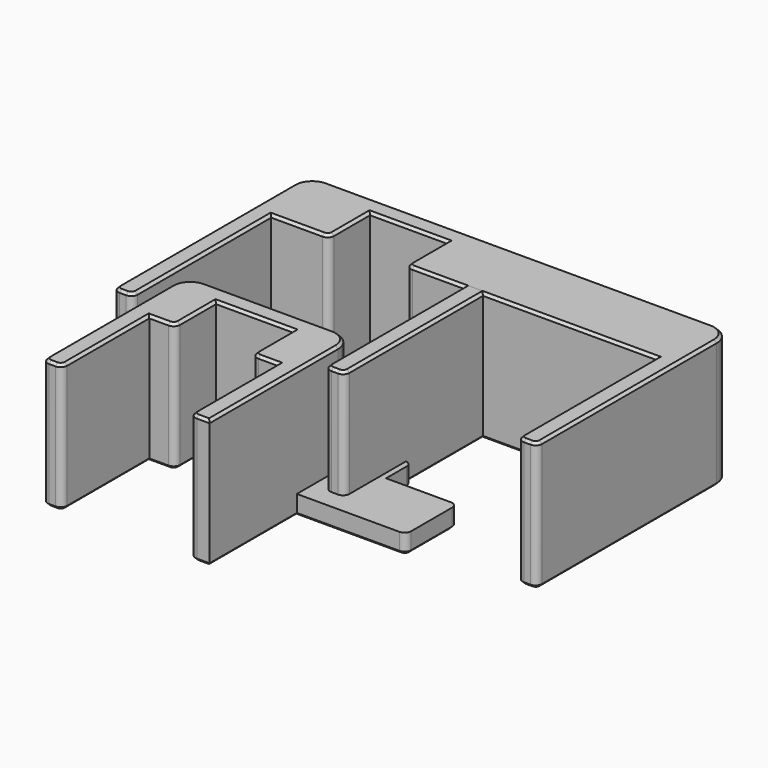
from build123d import *

# Parameters (mm, degrees)
BOX002_W        = 30
BOX002_H        = 15
BOX002_DEPTH    = 10
BOX001_W        = 7.8
BOX001_H        = 10
BOX001_DEPTH    = 4
FILLET001_R     = 1
CHAMFER001_SIZE = 0.4
BOX_W           = 30
BOX_H           = 10
BOX_DEPTH       = 4
FILLET_R        = 1
CHAMFER_SIZE    = 0.4
BOX005_W        = 12
BOX005_H        = 8
BOX005_DEPTH    = 20
BOX004_W        = 30
BOX004_H        = 30
BOX004_DEPTH    = 20
BOX003_W        = 36
BOX003_H        = 38
BOX003_DEPTH    = 20
FILLET002_R     = 3
FILLET003_R     = 1
FILLET006_R     = 1
CHAMFER002_SIZE = 0.4
BOX008_W        = 12
BOX008_H        = 8
BOX008_DEPTH    = 20
BOX007_W        = 60
BOX007_H        = 30
BOX007_DEPTH    = 20
BOX006_W        = 66
BOX006_H        = 38
BOX006_DEPTH    = 20
FILLET004_R     = 3
FILLET005_R     = 1
FILLET007_R     = 1
CHAMFER003_SIZE = 0.4
BOX009_W        = 12
BOX009_H        = 8
BOX009_DEPTH    = 20
BOX010_W        = 20
BOX010_H        = 20
BOX010_DEPTH    = 20
BOX011_W        = 26
BOX011_H        = 28
BOX011_DEPTH    = 20
FILLET008_R     = 3
FILLET009_R     = 1
CHAMFER004_SIZE = 0.4


with BuildPart() as cube002:
    # Box002 → Box002 (new body)
    with BuildSketch(Plane.XY.offset(3)):
        with Locations((15, 7.5)):
            Rectangle(BOX002_W, BOX002_H)
    extrude(amount=BOX002_DEPTH)


with BuildPart() as chamfer001:
    # Box001 → Box001 (new body)
    with BuildSketch(Plane(origin=(11.1, 5, 0), x_dir=(1, 0, 0), z_dir=(0, 0, 1))):
        with Locations((3.9, 5)):
            Rectangle(BOX001_W, BOX001_H)
    extrude(amount=BOX001_DEPTH)

    # Fillet001
    fillet001_edges = [chamfer001.edges().sort_by_distance(p)[0] for p in [
        (11.1, 15, 2),
        (18.9, 15, 2),
    ]]
    fillet(fillet001_edges, radius=FILLET001_R)

    # Chamfer001
    chamfer001_edges = [chamfer001.edges().sort_by_distance(p)[0] for p in [
        (11.1, 9.5, 0),
        (11.392893, 14.707107, 0),
        (15, 5, 0),
        (18.9, 9.5, 0),
        (18.607107, 14.707107, 0),
        (15, 15, 0),
    ]]
    chamfer(chamfer001_edges, length=CHAMFER001_SIZE)


with BuildPart() as cut:
    # Box → Box (new body)
    with BuildSketch(Plane.XY):
        with Locations((15, 5)):
            Rectangle(BOX_W, BOX_H)
    extrude(amount=BOX_DEPTH)

    # Fillet
    fillet_edges = [cut.edges().sort_by_distance(p)[0] for p in [
        (0, 0, 2),
        (0, 10, 2),
        (30, 0, 2),
        (30, 10, 2),
    ]]
    fillet(fillet_edges, radius=FILLET_R)

    # Chamfer
    chamfer_edges = [cut.edges().sort_by_distance(p)[0] for p in [
        (0, 5, 0),
        (0.292893, 0.292893, 0),
        (0.292893, 9.707107, 0),
        (15, 0, 0),
        (29.707107, 0.292893, 0),
        (30, 5, 0),
        (29.707107, 9.707107, 0),
        (15, 10, 0),
    ]]
    chamfer(chamfer_edges, length=CHAMFER_SIZE)

    # Fusion: union Chamfer001
    add(chamfer001.part)

    # Cut: cut Cube002
    add(cube002.part, mode=Mode.SUBTRACT)


with BuildPart() as cube005:
    # Box005 → Box005 (new body)
    with BuildSketch(Plane(origin=(-6, 30, 0), x_dir=(1, 0, 0), z_dir=(0, 0, 1))):
        with Locations((6, 4)):
            Rectangle(BOX005_W, BOX005_H)
    extrude(amount=BOX005_DEPTH)


with BuildPart() as fusion001:
    # Box004 → Box004 (new body)
    with BuildSketch(Plane(origin=(-15, 0, 0), x_dir=(1, 0, 0), z_dir=(0, 0, 1))):
        with Locations((15, 15)):
            Rectangle(BOX004_W, BOX004_H)
    extrude(amount=BOX004_DEPTH)

    # Fusion001: union Cube005
    add(cube005.part)


with BuildPart() as f_30_spacer:
    # Box003 → Box003 (new body)
    with BuildSketch(Plane(origin=(-18, 3, 0), x_dir=(1, 0, 0), z_dir=(0, 0, 1))):
        with Locations((18, 19)):
            Rectangle(BOX003_W, BOX003_H)
    extrude(amount=BOX003_DEPTH)

    # Fillet002
    fillet002_edges = [f_30_spacer.edges().sort_by_distance(p)[0] for p in [
        (-18, 41, 10),
        (18, 41, 10),
    ]]
    fillet(fillet002_edges, radius=FILLET002_R)

    # Fillet003
    fillet003_edges = [f_30_spacer.edges().sort_by_distance(p)[0] for p in [
        (-18, 3, 10),
        (18, 3, 10),
    ]]
    fillet(fillet003_edges, radius=FILLET003_R)

    # Cut001: cut Fusion001
    add(fusion001.part, mode=Mode.SUBTRACT)

    # Fillet006
    fillet006_edges = [f_30_spacer.edges().sort_by_distance(p)[0] for p in [
        (15, 3, 10),
        (6, 30, 10),
        (-6, 30, 10),
        (-15, 3, 10),
    ]]
    fillet(fillet006_edges, radius=FILLET006_R)

    # Chamfer002
    chamfer002_edges = [f_30_spacer.edges().sort_by_distance(p)[0] for p in [
        (16.5, 3, 20),
        (17.707107, 3.292893, 20),
        (18, 21, 20),
        (17.12132, 40.12132, 20),
        (0, 41, 20),
        (-17.12132, 40.12132, 20),
        (-18, 21, 20),
        (-17.707107, 3.292893, 20),
        (-16.5, 3, 20),
        (-15.292893, 3.292893, 20),
        (-15, 17, 20),
        (-11, 30, 20),
        (-6.292893, 30.292893, 20),
        (-6, 34.5, 20),
        (0, 38, 20),
        (6, 34.5, 20),
        (6.292893, 30.292893, 20),
        (11, 30, 20),
        (15, 17, 20),
        (15.292893, 3.292893, 20),
        (16.5, 3, 0),
        (15.292893, 3.292893, 0),
        (17.707107, 3.292893, 0),
        (15, 17, 0),
        (18, 21, 0),
        (11, 30, 0),
        (17.12132, 40.12132, 0),
        (6.292893, 30.292893, 0),
        (0, 41, 0),
        (6, 34.5, 0),
        (-17.12132, 40.12132, 0),
        (0, 38, 0),
        (-18, 21, 0),
        (-6, 34.5, 0),
        (-17.707107, 3.292893, 0),
        (-6.292893, 30.292893, 0),
        (-16.5, 3, 0),
        (-11, 30, 0),
        (-15.292893, 3.292893, 0),
        (-15, 17, 0),
    ]]
    chamfer(chamfer002_edges, length=CHAMFER002_SIZE)


with BuildPart() as cube008:
    # Box008 → Box008 (new body)
    with BuildSketch(Plane(origin=(-6, 30, 0), x_dir=(1, 0, 0), z_dir=(0, 0, 1))):
        with Locations((6, 4)):
            Rectangle(BOX008_W, BOX008_H)
    extrude(amount=BOX008_DEPTH)


with BuildPart() as fusion002:
    # Box007 → Box007 (new body)
    with BuildSketch(Plane(origin=(-15, 0, 0), x_dir=(1, 0, 0), z_dir=(0, 0, 1))):
        with Locations((30, 15)):
            Rectangle(BOX007_W, BOX007_H)
    extrude(amount=BOX007_DEPTH)

    # Fusion002: union Cube008
    add(cube008.part)


with BuildPart() as f_60_spacer:
    # Box006 → Box006 (new body)
    with BuildSketch(Plane(origin=(-18, 3, 0), x_dir=(1, 0, 0), z_dir=(0, 0, 1))):
        with Locations((33, 19)):
            Rectangle(BOX006_W, BOX006_H)
    extrude(amount=BOX006_DEPTH)

    # Fillet004
    fillet004_edges = [f_60_spacer.edges().sort_by_distance(p)[0] for p in [
        (-18, 41, 10),
        (48, 41, 10),
    ]]
    fillet(fillet004_edges, radius=FILLET004_R)

    # Fillet005
    fillet005_edges = [f_60_spacer.edges().sort_by_distance(p)[0] for p in [
        (-18, 3, 10),
        (48, 3, 10),
    ]]
    fillet(fillet005_edges, radius=FILLET005_R)

    # Cut002: cut Fusion002
    add(fusion002.part, mode=Mode.SUBTRACT)

    # Fillet007
    fillet007_edges = [f_60_spacer.edges().sort_by_distance(p)[0] for p in [
        (45, 3, 10),
        (6, 30, 10),
        (-6, 30, 10),
        (-15, 3, 10),
    ]]
    fillet(fillet007_edges, radius=FILLET007_R)

    # Chamfer003
    chamfer003_edges = [f_60_spacer.edges().sort_by_distance(p)[0] for p in [
        (46.5, 3, 20),
        (47.707107, 3.292893, 20),
        (48, 21, 20),
        (47.12132, 40.12132, 20),
        (15, 41, 20),
        (-17.12132, 40.12132, 20),
        (-18, 21, 20),
        (-17.707107, 3.292893, 20),
        (-16.5, 3, 20),
        (-15.292893, 3.292893, 20),
        (-15, 17, 20),
        (-11, 30, 20),
        (-6.292893, 30.292893, 20),
        (-6, 34.5, 20),
        (0, 38, 20),
        (6, 34.5, 20),
        (6.292893, 30.292893, 20),
        (26, 30, 20),
        (45, 17, 20),
        (45.292893, 3.292893, 20),
        (46.5, 3, 0),
        (45.292893, 3.292893, 0),
        (47.707107, 3.292893, 0),
        (45, 17, 0),
        (48, 21, 0),
        (26, 30, 0),
        (47.12132, 40.12132, 0),
        (6.292893, 30.292893, 0),
        (15, 41, 0),
        (6, 34.5, 0),
        (-17.12132, 40.12132, 0),
        (0, 38, 0),
        (-18, 21, 0),
        (-6, 34.5, 0),
        (-17.707107, 3.292893, 0),
        (-6.292893, 30.292893, 0),
        (-16.5, 3, 0),
        (-11, 30, 0),
        (-15.292893, 3.292893, 0),
        (-15, 17, 0),
    ]]
    chamfer(chamfer003_edges, length=CHAMFER003_SIZE)


with BuildPart() as cube009:
    # Box009 → Box009 (new body)
    with BuildSketch(Plane(origin=(-6, 0, 0), x_dir=(1, 0, 0), z_dir=(0, 0, 1))):
        with Locations((6, 4)):
            Rectangle(BOX009_W, BOX009_H)
    extrude(amount=BOX009_DEPTH)


with BuildPart() as fusion003:
    # Box010 → Box010 (new body)
    with BuildSketch(Plane(origin=(-10, -20, 0), x_dir=(1, 0, 0), z_dir=(0, 0, 1))):
        with Locations((10, 10)):
            Rectangle(BOX010_W, BOX010_H)
    extrude(amount=BOX010_DEPTH)

    # Fusion003: union Cube009
    add(cube009.part)


with BuildPart() as chamfer004:
    # Box011 → Box011 (new body)
    with BuildSketch(Plane(origin=(-13, -17, 0), x_dir=(1, 0, 0), z_dir=(0, 0, 1))):
        with Locations((13, 14)):
            Rectangle(BOX011_W, BOX011_H)
    extrude(amount=BOX011_DEPTH)

    # Cut003: cut Fusion003
    add(fusion003.part, mode=Mode.SUBTRACT)

    # Fillet008
    fillet008_edges = [chamfer004.edges().sort_by_distance(p)[0] for p in [
        (-13, 11, 10),
        (13, 11, 10),
    ]]
    fillet(fillet008_edges, radius=FILLET008_R)

    # Fillet009
    fillet009_edges = [chamfer004.edges().sort_by_distance(p)[0] for p in [
        (-13, -17, 10),
        (-10, -17, 10),
        (10, -17, 10),
        (-6, 0, 10),
        (6, 0, 10),
    ]]
    fillet(fillet009_edges, radius=FILLET009_R)

    # Chamfer004
    chamfer004_edges = [chamfer004.edges().sort_by_distance(p)[0] for p in [
        (-13, -4, 20),
        (-13, -4, 0),
        (-12.707107, -16.707107, 20),
        (-11.5, -17, 20),
        (-10.292893, -16.707107, 20),
        (-10, -8, 20),
        (-8.5, 0, 20),
        (-6.292893, 0.292893, 20),
        (-6, 4.5, 20),
        (0, 8, 20),
        (6, 4.5, 20),
        (6.292893, 0.292893, 20),
        (8.5, 0, 20),
        (10, -8, 20),
        (10.292893, -16.707107, 20),
        (12, -17, 20),
        (13, -4.5, 20),
        (12.12132, 10.12132, 20),
        (0, 11, 20),
        (-12.12132, 10.12132, 20),
        (-12.707107, -16.707107, 0),
        (-12.12132, 10.12132, 0),
        (-11.5, -17, 0),
        (-10.292893, -16.707107, 0),
        (-10, -8, 0),
        (-8.5, 0, 0),
        (-6.292893, 0.292893, 0),
        (-6, 4.5, 0),
        (0, 8, 0),
        (6, 4.5, 0),
        (6.292893, 0.292893, 0),
        (8.5, 0, 0),
        (10, -8, 0),
        (10.292893, -16.707107, 0),
        (12, -17, 0),
        (13, -4.5, 0),
        (12.12132, 10.12132, 0),
        (0, 11, 0),
    ]]
    chamfer(chamfer004_edges, length=CHAMFER004_SIZE)


solid = Compound([cut.part, f_30_spacer.part, f_60_spacer.part, chamfer004.part])
